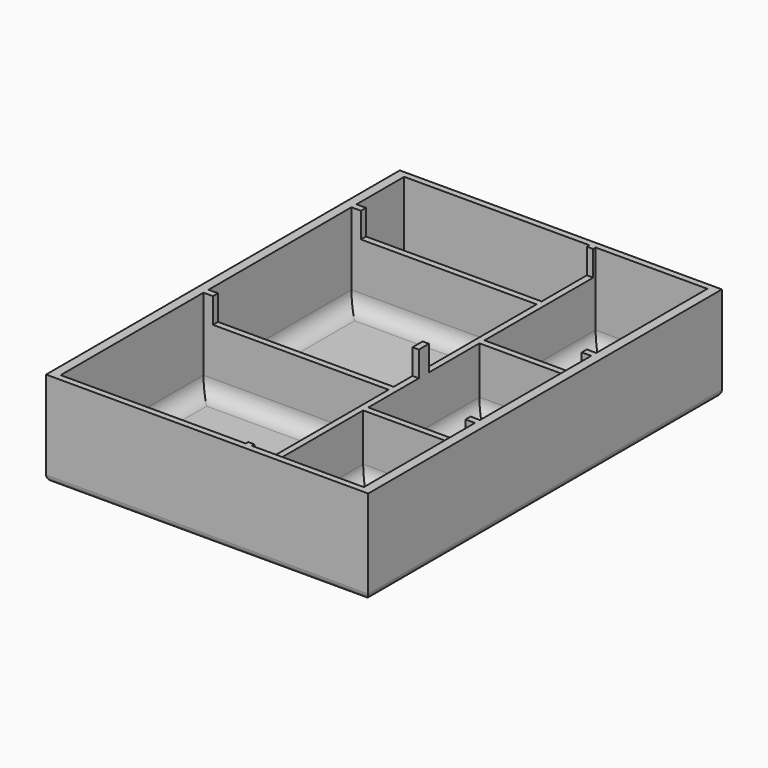
from build123d import *

# Parameters (mm, degrees)
SKETCH_W             = 140
SKETCH_H             = 102
PAD_DEPTH            = 30
SKETCH001_W          = 56.560638
SKETCH001_H          = 58.617586
SKETCH001_W_2        = 18.878723
SKETCH001_W_3        = 44
SKETCH001_H_2        = 35.382414
POCKET_DEPTH         = 28
FILLET_R             = 5
SKETCH002_W          = 65
SKETCH002_H          = 90
POCKET001_DEPTH      = 8
FILLET001_R          = 2
BODY_PLACEMENT_ANGLE = 90


with BuildPart() as part:
    # Sketch → Pad (new body)
    with BuildSketch(Plane.XY):
        Rectangle(SKETCH_W, SKETCH_H)
    extrude(amount=PAD_DEPTH)

    # Sketch001 (on DatumPlane) → Pocket (cut)
    with BuildSketch(Plane.XY.offset(30)):
        with Locations((-39.719681, 18.691207)):
            Rectangle(SKETCH001_W, SKETCH001_H)
        with Locations((18.840958, 18.691207)):
            Rectangle(SKETCH001_W, SKETCH001_H)
        with Locations((58.560638, 18.691207)):
            Rectangle(SKETCH001_W_2, SKETCH001_H)
        with Locations((-46, -30.308793)):
            Rectangle(SKETCH001_W_3, SKETCH001_H_2)
        with Locations((0, -30.308793)):
            Rectangle(SKETCH001_W_3, SKETCH001_H_2)
        with Locations((46, -30.308793)):
            Rectangle(SKETCH001_W_3, SKETCH001_H_2)
    extrude(amount=-POCKET_DEPTH, mode=Mode.SUBTRACT)

    # Fillet
    fillet_edges = [part.edges().sort_by_distance(p)[0] for p in [
        (-46, -12.617586, 2),
        (-24, -30.308793, 2),
        (-46, -48, 2),
        (-68, -30.308793, 2),
        (-39.719681, 48, 2),
        (-11.439362, 18.691207, 2),
        (-39.719681, -10.617586, 2),
        (-68, 18.691207, 2),
        (18.840958, 48, 2),
        (47.121277, 18.691207, 2),
        (18.840958, -10.617586, 2),
        (-9.439361, 18.691207, 2),
        (0, -12.617586, 2),
        (22, -30.308793, 2),
        (0, -48, 2),
        (-22, -30.308793, 2),
        (46, -12.617586, 2),
        (68, -30.308793, 2),
        (46, -48, 2),
        (24, -30.308793, 2),
        (58.560638, 48, 2),
        (68, 18.691207, 2),
        (58.560638, -10.617586, 2),
        (49.121277, 18.691207, 2),
    ]]
    fillet(fillet_edges, radius=FILLET_R)

    # Sketch002 (on DatumPlane) → Pocket001 (cut)
    with BuildSketch(Plane.XY.offset(30)):
        with Locations((-34.5, 0)):
            Rectangle(SKETCH002_W, SKETCH002_H)
        with Locations((34.5, 0)):
            Rectangle(SKETCH002_W, SKETCH002_H)
    extrude(amount=-POCKET001_DEPTH, mode=Mode.SUBTRACT)

    # Fillet001
    fillet001_edges = [part.edges().sort_by_distance(p)[0] for p in [
        (0, 51, 0),
        (70, 0, 0),
        (0, -51, 0),
        (-70, 0, 0),
    ]]
    fillet(fillet001_edges, radius=FILLET001_R)


with BuildPart() as part_1:
    # Body placement: moved
    add(part.part.moved(Location((151, 90, 0))).rotate(Axis((151, 90, 0), (0, 0, 1)), BODY_PLACEMENT_ANGLE))


solid = part_1.part
